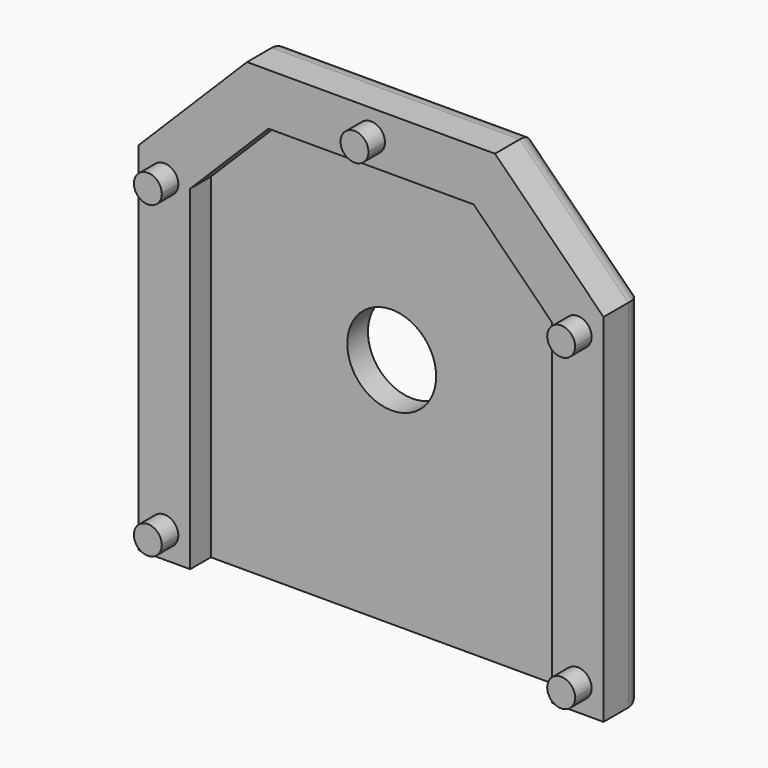
from build123d import *

# Parameters (mm, degrees)
F0_W     = 45
F0_H     = 45
F1_DEPTH = 2.5
F2_SIZE  = 10.5
F4_DEPTH = 2.5
F5_R     = 2
F3_R     = 4.3
F6_DEPTH = 25
F8_DEPTH = 2


with BuildPart() as f1:
    # F0 (on Front) → F1 (new body)
    with BuildSketch(Plane.XZ):
        Rectangle(F0_W, F0_H)
    extrude(amount=F1_DEPTH)

    # F2
    f2_edges = [f1.edges().sort_by_distance(p)[0] for p in [
        (-22.5, -1.25, 22.5),
        (22.5, -1.25, 22.5),
    ]]
    chamfer(f2_edges, length=F2_SIZE)

    # F3 (on face) → F4 (join)
    with BuildSketch(Plane.XZ.offset(2.5)):
        Polygon((-17.5, -22.5), (-17.5, 9.928932), (-9.928932, 17.5), (9.928932, 17.5), (17.5, 9.928932), (17.5, -22.5), (22.5, -22.5), (22.5, 12), (12, 22.5), (-12, 22.5), (-22.5, 12), (-22.5, -22.5), align=None)
    extrude(amount=F4_DEPTH)

    # F5
    f5_edges = [f1.edges().sort_by_distance(p)[0] for p in [
        (22.5, 0, -5.25),
        (17.25, 0, 17.25),
        (0, 0, -22.5),
        (0, 0, 22.5),
        (-22.5, 0, -5.25),
        (-17.25, 0, 17.25),
    ]]
    fillet(f5_edges, radius=F5_R)

    # F3 (on face) → F6 (cut)
    with BuildSketch(Plane.XZ.offset(2.5)):
        Circle(F3_R)
    extrude(amount=-F6_DEPTH, mode=Mode.SUBTRACT)

    # F7 (on face) → F8 (join)
    with BuildSketch(Plane.XZ.offset(5)):
        with BuildLine():
            ThreePointArc((-20, 8.578932), (-19.045406, 8.974338), (-18.65, 9.928932))
            Line((-18.65, 9.928932), (-20, 9.928932))
            Line((-20, 9.928932), (-20, 8.578932))
        make_face()
        with BuildLine():
            Line((-20, 9.928932), (-18.65, 9.928932))
            ThreePointArc((-18.65, 9.928932), (-20.954594, 10.883526), (-20, 8.578932))
            Line((-20, 8.578932), (-20, 9.928932))
        make_face()
        with BuildLine():
            ThreePointArc((-21.35, -20), (-20.954594, -20.954594), (-20, -21.35))
            Line((-20, -21.35), (-20, -20))
            Line((-20, -20), (-21.35, -20))
        make_face()
        with BuildLine():
            Line((-20, -20), (-20, -21.35))
            ThreePointArc((-20, -21.35), (-19.045406, -20.954594), (-18.65, -20))
            ThreePointArc((-18.65, -20), (-20, -18.65), (-21.35, -20))
            Line((-21.35, -20), (-20, -20))
        make_face()
        with BuildLine():
            Line((20, -20), (18.65, -20))
            ThreePointArc((18.65, -20), (19.045406, -20.954594), (20, -21.35))
            Line((20, -21.35), (20, -20))
        make_face()
        with BuildLine():
            ThreePointArc((21.35, -20), (20, -18.65), (18.65, -20))
            Line((18.65, -20), (20, -20))
            Line((20, -20), (20, -21.35))
            ThreePointArc((20, -21.35), (20.954594, -20.954594), (21.35, -20))
        make_face()
        with BuildLine():
            Line((20, 9.928932), (18.65, 9.928932))
            ThreePointArc((18.65, 9.928932), (19.045406, 8.974338), (20, 8.578932))
            Line((20, 8.578932), (20, 9.928932))
        make_face()
        with BuildLine():
            ThreePointArc((21.35, 9.928932), (20, 11.278932), (18.65, 9.928932))
            Line((18.65, 9.928932), (20, 9.928932))
            Line((20, 9.928932), (20, 8.578932))
            ThreePointArc((20, 8.578932), (20.954594, 8.974338), (21.35, 9.928932))
        make_face()
        with BuildLine():
            ThreePointArc((1.35, 20), (-0.954594, 20.954594), (0, 18.65))
            ThreePointArc((0, 18.65), (0.954594, 19.045406), (1.35, 20))
        make_face()
    extrude(amount=F8_DEPTH)


solid = f1.part
